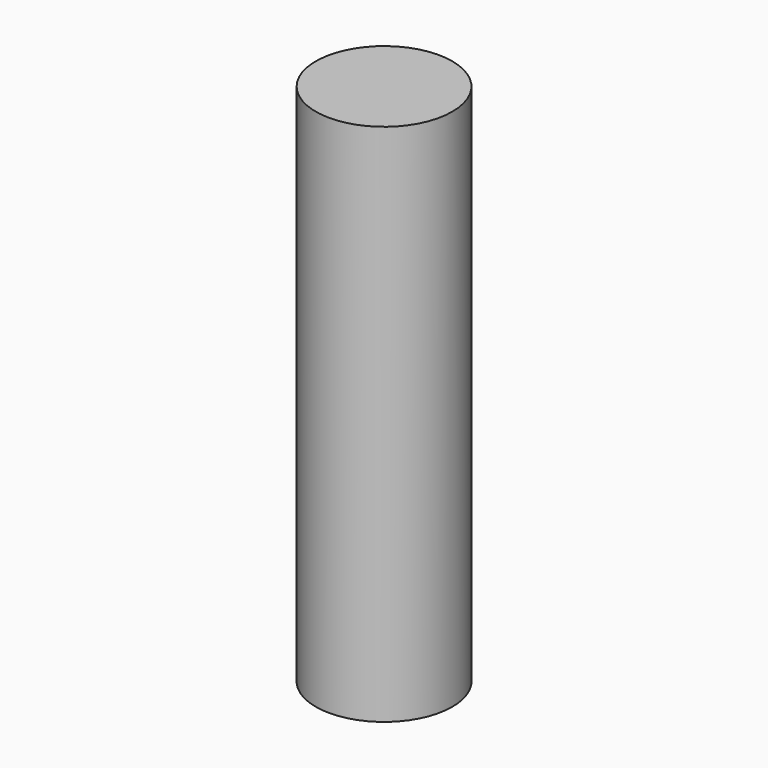
from build123d import *

# Parameters (mm, degrees)
CYLINDER_R     = 2.5
CYLINDER_DEPTH = 20


with BuildPart() as nozzle_revolution:
    # Sketch006 → Revolution (revolve)
    with BuildSketch(Plane.XZ):
        Polygon((-0.375, 0), (-2.5, 0.815711), (-2.5, 0), align=None)
    revolve(axis=Axis((0, 0, 0), (0, 0, 1)))


with BuildPart() as nozzle_cut:
    # Cylinder → Cylinder (new body)
    with BuildSketch(Plane.XY):
        Circle(CYLINDER_R)
    extrude(amount=CYLINDER_DEPTH)

    # Cut: cut nozzle-revolution
    add(nozzle_revolution.part, mode=Mode.SUBTRACT)


solid = nozzle_cut.part
